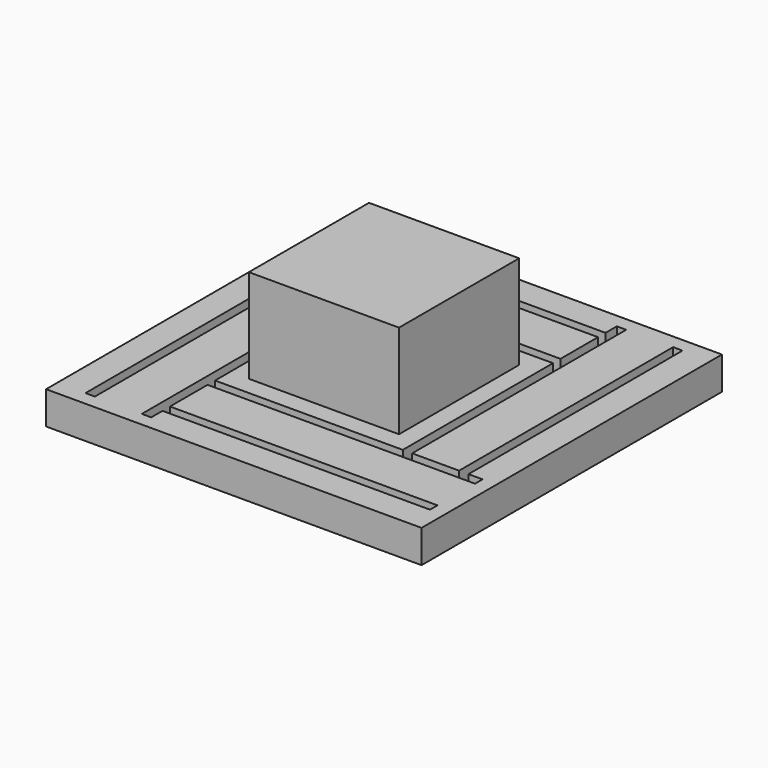
from build123d import *

# Parameters (mm, degrees)
F0_W     = 40
F0_H     = 40
F1_DEPTH = 2
F2_W     = 40
F2_H     = 40
F2_W_2   = 38.5
F2_H_2   = 38.5
F3_DEPTH = 1.5
F5_W     = 15
F5_H     = 1
F5_W_2   = 5
F5_W_3   = 1
F5_H_2   = 5
F5_H_3   = 15
F5_W_4   = 28.5
F5_H_4   = 28.5
F5_W_5   = 1.5
F5_H_5   = 1.5
F6_DEPTH = 3.501
F7_W     = 16
F7_H     = 16
F8_DEPTH = 10


with BuildPart() as f1:
    # F0 (on Top) → F1 (new body)
    with BuildSketch(Plane.XY):
        Rectangle(F0_W, F0_H)
    extrude(amount=F1_DEPTH)

    # F2 (on face) → F3 (join)
    with BuildSketch(Plane(origin=(0, 0, 0), x_dir=(1, 0, 0), z_dir=(0, 0, -1))):
        Rectangle(F2_W, F2_H)
        Rectangle(F2_W_2, F2_H_2, mode=Mode.SUBTRACT)
    extrude(amount=F3_DEPTH)

    # F5 (on face) → F6 (cut, through all)
    with BuildSketch(Plane.XY.offset(2)):
        with Locations((2.5, -10.5)):
            Rectangle(F5_W, F5_H)
        with Locations((-7.5, -10.5)):
            Rectangle(F5_W_2, F5_H)
        with Locations((10.5, -7.5)):
            Rectangle(F5_W_3, F5_H_2)
        with Locations((10.5, -10.5)):
            Rectangle(F5_W_3, F5_H)
        with Locations((-10.5, -2.5)):
            Rectangle(F5_W_3, F5_H_3)
        with Locations((-10.5, -10.5)):
            Rectangle(F5_W_3, F5_H)
        Polygon((-10, -16), (-10, -11), (-11, -11), (-11, -17), (-10, -17), align=None)
        Polygon((16, -10), (11, -10), (11, -11), (17, -11), (17, -10), align=None)
        with Locations((10.5, 2.5)):
            Rectangle(F5_W_3, F5_H_3)
        with Locations((-10.5, 7.5)):
            Rectangle(F5_W_3, F5_H_2)
        with Locations((4.25, -16.5)):
            Rectangle(F5_W_4, F5_H)
        with Locations((16.5, 4.25)):
            Rectangle(F5_W_3, F5_H_4)
        with Locations((7.5, 10.5)):
            Rectangle(F5_W_2, F5_H)
        with Locations((10.5, 10.5)):
            Rectangle(F5_W_3, F5_H)
        with Locations((-10.5, 10.5)):
            Rectangle(F5_W_3, F5_H)
        with Locations((-2.5, 10.5)):
            Rectangle(F5_W, F5_H)
        with Locations((17.75, -10.5)):
            Rectangle(F5_W_5, F5_H)
        with Locations((-10.5, -17.75)):
            Rectangle(F5_W_3, F5_H_5)
        Polygon((10, 16), (10, 11), (11, 11), (11, 17), (10, 17), align=None)
        Polygon((-16, 10), (-11, 10), (-11, 11), (-17, 11), (-17, 10), align=None)
        with Locations((-4.25, 16.5)):
            Rectangle(F5_W_4, F5_H)
        with Locations((-16.5, -4.25)):
            Rectangle(F5_W_3, F5_H_4)
        with Locations((10.5, 17.75)):
            Rectangle(F5_W_3, F5_H_5)
        with Locations((-17.75, 10.5)):
            Rectangle(F5_W_5, F5_H)
    extrude(amount=-F6_DEPTH, mode=Mode.SUBTRACT)

    # F7 (on face) → F8 (join)
    with BuildSketch(Plane.XY.offset(2)):
        Rectangle(F7_W, F7_H)
    extrude(amount=F8_DEPTH)


solid = f1.part
